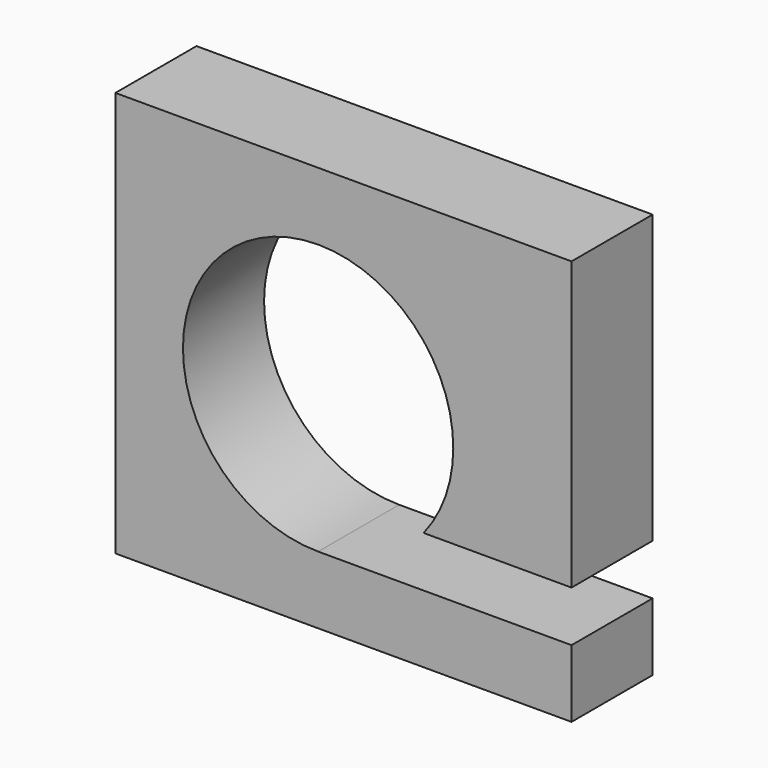
from build123d import *

# Parameters (mm, degrees)
F0_W     = 85.725
F0_H     = 76.2
F1_DEPTH = 19.05
F2_R     = 25.4
F3_DEPTH = 25.4
F5_DEPTH = 25.4


with BuildPart() as f1:
    # F0 (on Front) → F1 (new body)
    with BuildSketch(Plane.XZ):
        with Locations((42.8625, 38.1)):
            Rectangle(F0_W, F0_H)
    extrude(amount=F1_DEPTH)

    # F2 (on face) → F3 (cut)
    with BuildSketch(Plane.XZ.offset(19.05)):
        with Locations((38.1, 38.1)):
            Circle(F2_R)
    extrude(amount=-F3_DEPTH, mode=Mode.SUBTRACT)

    # F4 (on face) → F5 (cut)
    with BuildSketch(Plane.XZ.offset(19.05)):
        Polygon((85.725, 12.7), (85.725, 22.225), (57.927869, 22.225), (38.1, 12.7), align=None)
    extrude(amount=-F5_DEPTH, mode=Mode.SUBTRACT)


solid = f1.part
